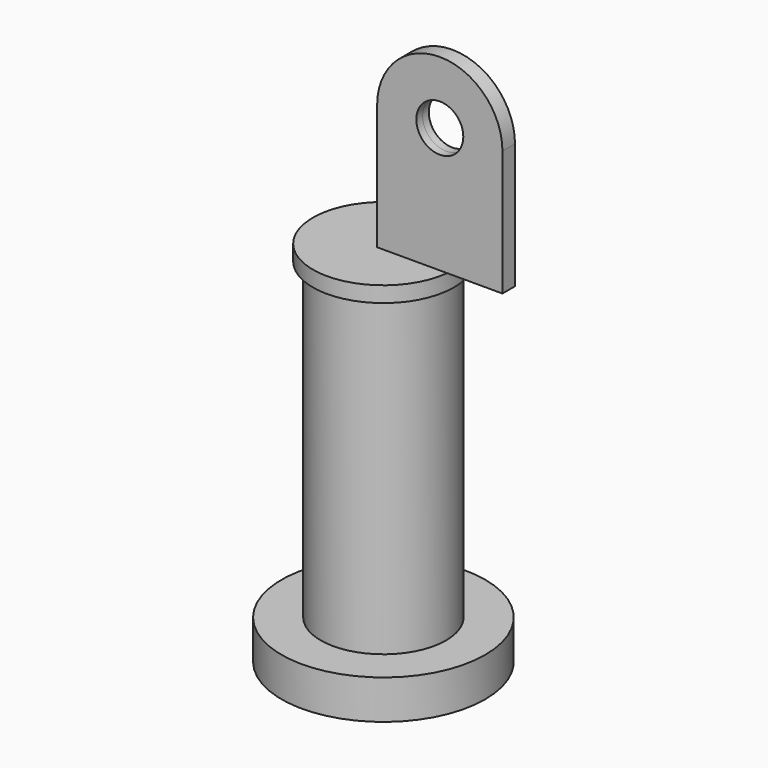
from build123d import *

# Parameters (mm, degrees)
F0_R          = 65
F1_DEPTH      = 25
F2_R          = 40
F2_R_2        = 35
F3_DEPTH      = 200
F4_R          = 45
F5_DEPTH      = 10
F6_R          = 15
F7_DEPTH      = 5
F7_DEPTH_BACK = 5


with BuildPart() as f1:
    # F0 (on Top) → F1 (new body)
    with BuildSketch(Plane.XY):
        Circle(F0_R)
    extrude(amount=F1_DEPTH)


with BuildPart() as f3:
    # F2 (on face) → F3 (new body)
    with BuildSketch(Plane.XY.offset(25)):
        Circle(F2_R)
        Circle(F2_R_2, mode=Mode.SUBTRACT)
    extrude(amount=F3_DEPTH)

    # F4 (on face) → F5 (join)
    with BuildSketch(Plane.XY.offset(225)):
        Circle(F4_R)
    extrude(amount=F5_DEPTH)


with BuildPart() as f7:
    # F6 (on Front) → F7 (new body, two sides)
    with BuildSketch(Plane.XZ) as f7_sk:
        with BuildLine():
            Line((0, 315), (0, 235))
            Line((0, 235), (80, 235))
            Line((80, 235), (80, 315))
            ThreePointArc((80, 315), (40, 355), (0, 315))
        make_face()
        with Locations((40, 315)):
            Circle(F6_R, mode=Mode.SUBTRACT)
    extrude(amount=F7_DEPTH)
    extrude(f7_sk.sketch, amount=-F7_DEPTH_BACK)


solid = Compound([f1.part, f3.part, f7.part])
